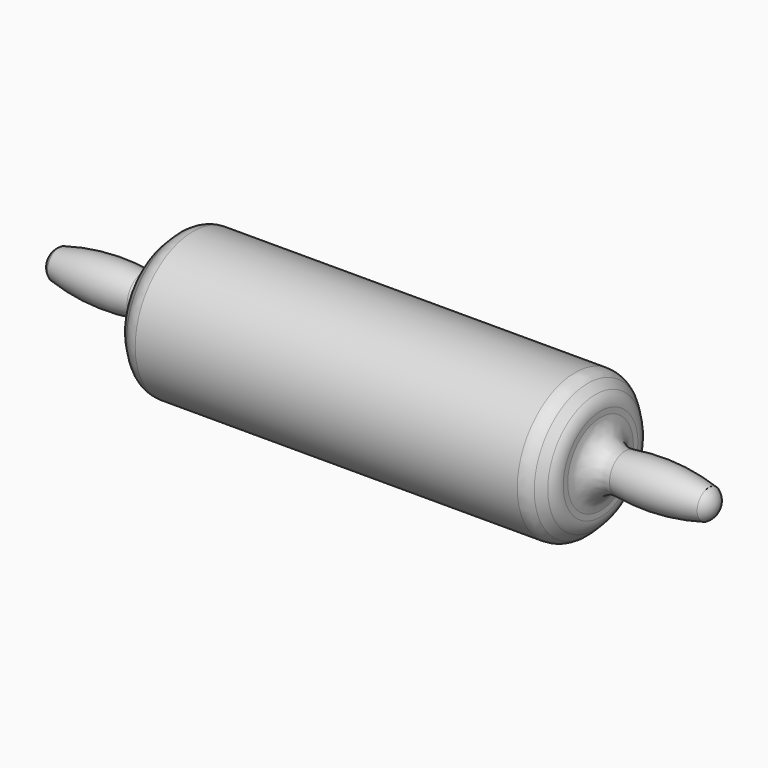
from build123d import *

# Parameters (mm, degrees)
F2_SIZE = 6.35
F3_R    = 6.35
F4_R    = 7.62


with BuildPart() as f1:
    # F0 (on Front) → F1 (revolve)
    with BuildSketch(Plane.XZ):
        with BuildLine():
            Line((-113.4249120951, 0), (-78.4026022691, 0))
            Line((-78.4026022691, 0), (73.9973977309, 0))
            Line((73.9973977309, 0), (109.0197075568, 0))
            Line((109.0197075568, 0), (115.0176400335, 0))
            ThreePointArc((115.0176400335, 0), (114.2367455979, 2.9593425069), (112.0973977309, 5.1481081173))
            ThreePointArc((112.0973977309, 5.1481081173), (93.0473977309, 7.6165926694), (73.9973977309, 5.1481081173))
            Line((73.9973977309, 5.1481081173), (73.9973977309, 25.4))
            Line((73.9973977309, 25.4), (-78.4026022691, 25.4))
            Line((-78.4026022691, 25.4), (-78.4026022691, 5.1481081173))
            ThreePointArc((-78.4026022691, 5.1481081173), (-97.4526022691, 7.6165926694), (-116.5026022691, 5.1481081173))
            ThreePointArc((-116.5026022691, 5.1481081173), (-118.6419501361, 2.9593425069), (-119.4228445717, 0))
            Line((-119.4228445717, 0), (-113.4249120951, 0))
        make_face()
    revolve(axis=Axis((-2.2026022691, 0, 0), (1, 0, 0)))

    # F2
    f2_edges = [f1.edges().sort_by_distance(p)[0] for p in [
        (73.997398, 0, -25.4),
        (-78.402602, 0, -25.4),
    ]]
    chamfer(f2_edges, length=F2_SIZE)

    # F3
    f3_edges = [f1.edges().sort_by_distance(p)[0] for p in [
        (73.997398, 0, -19.05),
        (67.647398, 0, -25.4),
        (-78.402602, 0, -19.05),
        (-72.052602, 0, -25.4),
    ]]
    fillet(f3_edges, radius=F3_R)

    # F4
    f4_edges = [f1.edges().sort_by_distance(p)[0] for p in [
        (73.997398, 0, -5.148108),
        (-78.402602, 0, -5.148108),
    ]]
    fillet(f4_edges, radius=F4_R)


solid = f1.part
